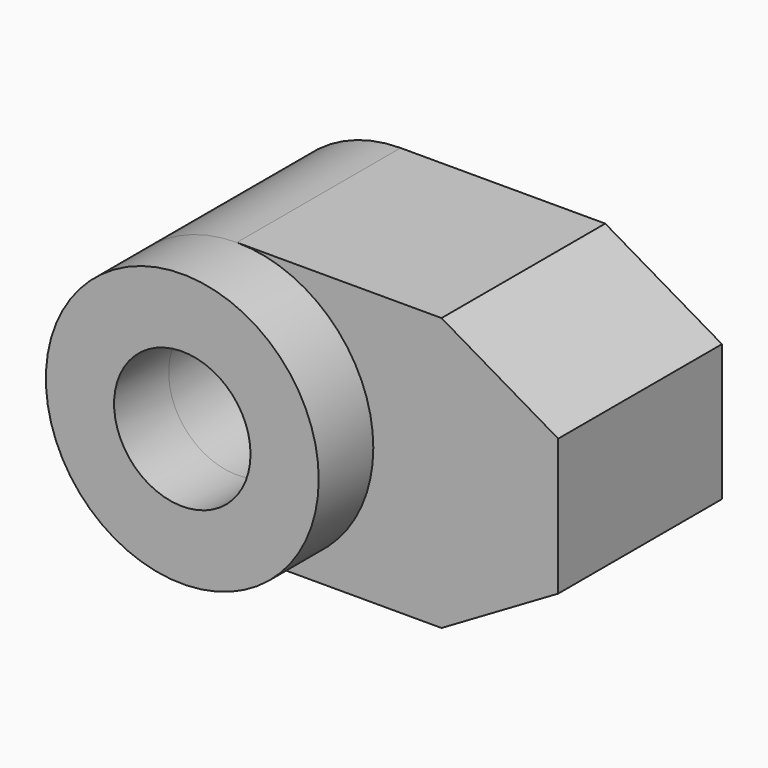
from build123d import *

# Parameters (mm, degrees)
F0_R     = 10
F0_R_2   = 5
F1_DEPTH = 5
F3_DEPTH = 15
F4_R     = 5
F5_DEPTH = 24.90763


with BuildPart() as f1:
    # F0 (on Front) → F1 (new body)
    with BuildSketch(Plane.XZ):
        Circle(F0_R)
        Circle(F0_R_2, mode=Mode.SUBTRACT)
    extrude(amount=F1_DEPTH)

    # F2 (on Front) → F3 (join)
    with BuildSketch(Plane.XZ):
        with BuildLine():
            ThreePointArc((0, -10), (7.071068, -7.071068), (10, 0))
            ThreePointArc((10, 0), (7.071068, 7.071068), (0, 10))
            ThreePointArc((0, 10), (-10, 0), (0, -10))
        make_face()
        with BuildLine():
            ThreePointArc((0, 10), (7.071068, 7.071068), (10, 0))
            ThreePointArc((10, 0), (7.071068, -7.071068), (0, -10))
            Line((0, -10), (15, -10))
            Line((15, -10), (23.552744, -5))
            Line((23.552744, -5), (23.552744, 5))
            Line((23.552744, 5), (15, 10))
            Line((15, 10), (0, 10))
        make_face()
    extrude(amount=-F3_DEPTH)

    # F4 (on Front) → F5 (cut, symmetric)
    with BuildSketch(Plane.XZ):
        Circle(F4_R)
    extrude(amount=F5_DEPTH, both=True, mode=Mode.SUBTRACT)


solid = f1.part
